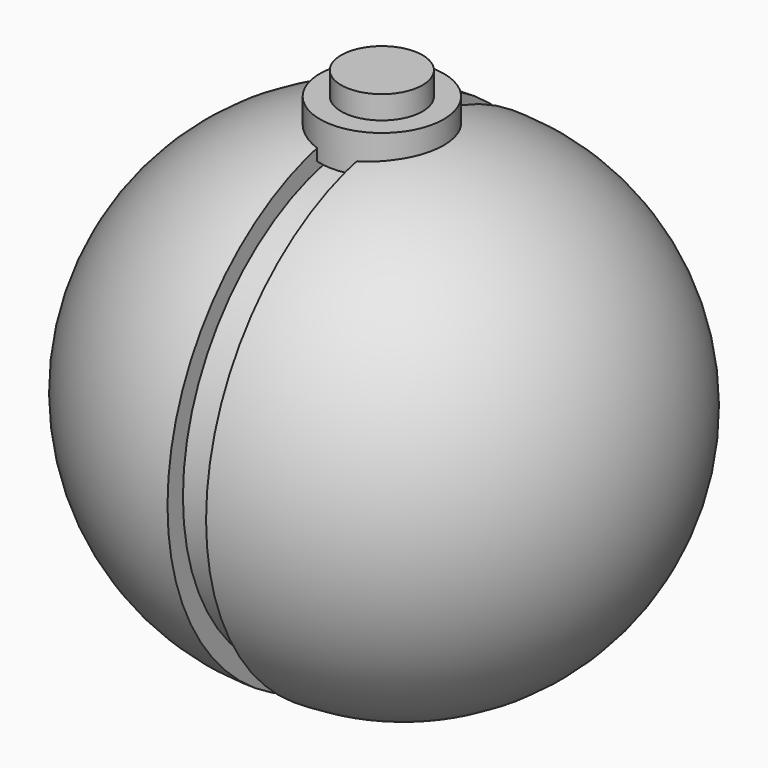
from build123d import *

# Parameters (mm, degrees)
F0_R      = 74.814367
F1_DEPTH  = 12.7
F4_R      = 20.372957
F5_DEPTH  = 12.7
F6_R      = 13.390931
F7_DEPTH  = 7.62
F10_ANGLE = 180
F12_ANGLE = 180


with BuildPart() as f1:
    # F0 (on Right) → F1 (new body)
    with BuildSketch(Plane.YZ):
        Circle(F0_R)
    extrude(amount=F1_DEPTH)

    # F4 (on plane+point) → F5 (join)
    with BuildSketch(Plane.XY.offset(74.814367)):
        with Locations((5.646787, 0)):
            Circle(F4_R)
    extrude(amount=F5_DEPTH)

    # F6 (on face) → F7 (join)
    with BuildSketch(Plane.XY.offset(87.514367)):
        with Locations((5.646787, 0)):
            Circle(F6_R)
    extrude(amount=F7_DEPTH)


with BuildPart() as f10:
    # F9 (on face) → F10 (revolve)
    with BuildSketch(Plane.YZ.offset(12.7)):
        with BuildLine():
            ThreePointArc((0, -81.164367), (81.164367, 0), (0, 81.164367))
            Line((0, 81.164367), (0, -81.164367))
        make_face()
    revolve(axis=Axis((12.7, 0, 0), (0, 0, -1)), revolution_arc=F10_ANGLE)


with BuildPart() as f12:
    # F11 (on face) → F12 (revolve)
    with BuildSketch(Plane(origin=(0, 0, 0), x_dir=(0, -1, 0), z_dir=(-1, 0, 0))):
        with BuildLine():
            Line((0, 81.164367), (0, -81.164367))
            ThreePointArc((0, -81.164367), (81.164367, 0), (0, 81.164367))
        make_face()
    revolve(axis=Axis((0, 0, 0), (0, 0, -1)), revolution_arc=F12_ANGLE)


solid = Compound([f1.part, f10.part, f12.part])
